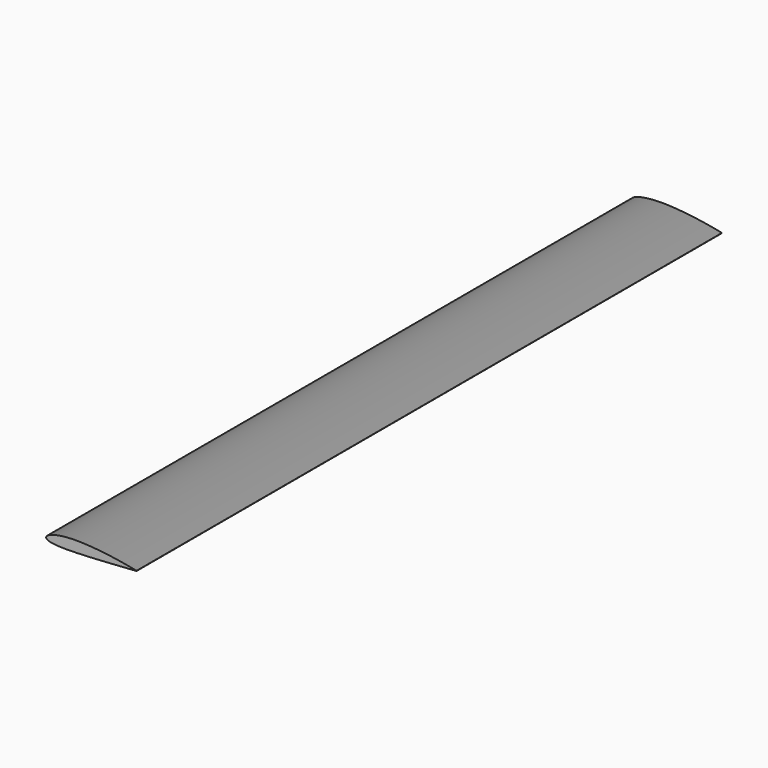
from build123d import *

# Parameters (mm, degrees)
PAD_DEPTH = 1415


with BuildPart() as part:
    with BuildSketch(Plane.XZ):
        Polygon((0, 0), (1.852725, 5.118926), (4.009145, 7.260839), (6.218891, 8.904701), (8.457514, 10.286004), (10.715354, 11.496008), (12.98736, 12.581552), (15.270468, 13.570495), (17.562638, 14.481018), (19.862422, 15.325774), (22.168741, 16.113999), (24.48076, 16.852689), (26.797816, 17.547294), (29.119367, 18.202168), (31.44496, 18.820856), (33.774215, 19.406294), (36.106804, 19.96095), (38.442442, 20.486922), (40.780879, 20.986019), (43.121891, 21.459807), (45.465282, 21.909665), (47.81087, 22.336805), (50.158495, 22.742309), (52.508006, 23.127144), (54.859269, 23.492182), (57.212158, 23.838211), (59.566555, 24.16595), (61.922355, 24.476053), (64.279454, 24.769124), (66.63776, 25.045718), (68.997183, 25.306346), (71.35764, 25.551485), (73.719052, 25.781577), (76.081346, 25.997037), (78.44445, 26.198252), (80.808297, 26.385583), (83.172825, 26.559373), (85.537972, 26.719943), (87.903681, 26.867598), (90.269896, 27.002626), (92.636564, 27.125298), (95.003636, 27.235875), (97.371062, 27.334602), (99.738796, 27.421714), (102.106794, 27.497436), (104.475013, 27.561982), (106.843411, 27.615556), (109.211949, 27.658354), (111.580589, 27.690564), (113.949293, 27.712367), (116.318027, 27.723936), (118.686756, 27.725438), (121.055447, 27.717032), (123.424068, 27.698873), (125.792589, 27.67111), (128.160979, 27.633887), (130.52921, 27.587341), (132.897254, 27.531606), (135.265085, 27.466811), (137.632675, 27.393082), (140, 27.310538), (142.348312, 27.220399), (144.696485, 27.12388), (147.044509, 27.02109), (149.392373, 26.912134), (151.740069, 26.797113), (154.087588, 26.676126), (156.434919, 26.549268), (158.782056, 26.41663), (161.128989, 26.278303), (163.47571, 26.134372), (165.822211, 25.984922), (168.168484, 25.830032), (170.514523, 25.669782), (172.860319, 25.504247), (175.205866, 25.3335), (177.551157, 25.157613), (179.896184, 24.976655), (182.240943, 24.790691), (184.585425, 24.599787), (186.929625, 24.404003), (189.273537, 24.203402), (191.617155, 23.998039), (193.960473, 23.787972), (196.303485, 23.573254), (198.646186, 23.353937), (200.988571, 23.130073), (203.330634, 22.901708), (205.67237, 22.66889), (208.013774, 22.431664), (210.354841, 22.190072), (212.695566, 21.944156), (215.035944, 21.693955), (217.375971, 21.439508), (219.715641, 21.180851), (222.05495, 20.918018), (224.393894, 20.651043), (226.732469, 20.379957), (229.070668, 20.10479), (231.408489, 19.825571), (233.745927, 19.542326), (236.082978, 19.25508), (238.419636, 18.963859), (240.755899, 18.668684), (243.091761, 18.369576), (245.427219, 18.066555), (247.762267, 17.759639), (250.096903, 17.448845), (252.431122, 17.134188), (254.764919, 16.815683), (257.09829, 16.493341), (259.431231, 16.167174), (261.763739, 15.837192), (264.095807, 15.503403), (266.427433, 15.165816), (268.758611, 14.824435), (271.089338, 14.479265), (273.419608, 14.13031), (275.749418, 13.777572), (278.078763, 13.421051), (280.407638, 13.060748), (282.736039, 12.696659), (285.063961, 12.328783), (287.391399, 11.957115), (289.718348, 11.58165), (292.044804, 11.20238), (294.370761, 10.819298), (296.696214, 10.432394), (299.021159, 10.041659), (301.345589, 9.64708), (303.6695, 9.248646), (305.992886, 8.846341), (308.315741, 8.44015), (310.638061, 8.030058), (312.959838, 7.616047), (315.281067, 7.198098), (317.601743, 6.776191), (319.921858, 6.350305), (322.241407, 5.920417), (324.560383, 5.486505), (326.87878, 5.048544), (329.196591, 4.606509), (331.513808, 4.160371), (333.830426, 3.710105), (336.146437, 3.255679), (338.461834, 2.797065), (340.776609, 2.33423), (343.090754, 1.867143), (345.404262, 1.395769), (347.717125, 0.920075), (350.029335, 0.440023), (349.970665, -0.440023), (347.616208, -0.610692), (345.262404, -0.780461), (342.909246, -0.949365), (340.556725, -1.11744), (338.204833, -1.284719), (335.853563, -1.451235), (333.502907, -1.617018), (331.152858, -1.7821), (328.803409, -1.946509), (326.454554, -2.110273), (324.106284, -2.273419), (321.758593, -2.435973), (319.411475, -2.597959), (317.064924, -2.759401), (314.718933, -2.92032), (312.373496, -3.080739), (310.028606, -3.240676), (307.684259, -3.40015), (305.340447, -3.55918), (302.997167, -3.717781), (300.654411, -3.875969), (298.312175, -4.033758), (295.970453, -4.19116), (293.629239, -4.348186), (291.28853, -4.504849), (288.948319, -4.661156), (286.608601, -4.817115), (284.269373, -4.972734), (281.930628, -5.128017), (279.592362, -5.28297), (277.25457, -5.437594), (274.917249, -5.591893), (272.580392, -5.745866), (270.243996, -5.899512), (267.908056, -6.05283), (265.572567, -6.205816), (263.237526, -6.358465), (260.902928, -6.510772), (258.568769, -6.662729), (256.235043, -6.814328), (253.901748, -6.965559), (251.568878, -7.116411), (249.23643, -7.26687), (246.904399, -7.416923), (244.572781, -7.566555), (242.241572, -7.715749), (239.910768, -7.864486), (237.580364, -8.012748), (235.250356, -8.160512), (232.92074, -8.307758), (230.591511, -8.454459), (228.262665, -8.600592), (225.934198, -8.74613), (223.606106, -8.891043), (221.278383, -9.035302), (218.951026, -9.178876), (216.624029, -9.32173), (214.297389, -9.463832), (211.971101, -9.605143), (209.645159, -9.745627), (207.319559, -9.885244), (204.994296, -10.023952), (202.669366, -10.161708), (200.344762, -10.298468), (198.02048, -10.434184), (195.696515, -10.568809), (193.372861, -10.702293), (191.049512, -10.834582), (188.726463, -10.965624), (186.403708, -11.095361), (184.081242, -11.223737), (181.759057, -11.350691), (179.437149, -11.476161), (177.11551, -11.600082), (174.794134, -11.722389), (172.473014, -11.843012), (170.152144, -11.96188), (167.831516, -12.078921), (165.511123, -12.194057), (163.190957, -12.307212), (160.871011, -12.418303), (158.551277, -12.527248), (156.231747, -12.633959), (153.912412, -12.738348), (151.593264, -12.840323), (149.274293, -12.939789), (146.955491, -13.036646), (144.636848, -13.130794), (142.318355, -13.222127), (140, -13.310538), (137.700658, -13.396971), (135.401582, -13.482367), (133.102746, -13.566606), (130.804123, -13.649563), (128.505687, -13.731109), (126.207411, -13.81111), (123.909265, -13.889429), (121.61122, -13.965921), (119.313244, -14.040438), (117.015306, -14.112825), (114.717373, -14.182923), (112.419411, -14.250564), (110.121384, -14.315576), (107.823256, -14.377778), (105.524987, -14.436982), (103.226539, -14.492992), (100.92787, -14.545603), (98.628938, -14.594602), (96.329698, -14.639763), (94.030103, -14.680854), (91.730104, -14.717626), (89.429653, -14.749821), (87.128695, -14.777166), (84.827175, -14.799373), (82.525036, -14.816138), (80.222217, -14.82714), (77.918654, -14.832037), (75.614281, -14.830466), (73.309027, -14.82204), (71.002817, -14.806346), (68.695574, -14.78294), (66.387213, -14.751347), (64.077645, -14.711053), (61.766778, -14.661505), (59.454509, -14.6021), (57.140731, -14.532182), (54.825327, -14.451033), (52.508172, -14.357864), (50.18913, -14.251805), (47.868052, -14.131887), (45.544775, -13.99703), (43.219121, -13.846019), (40.890891, -13.677478), (38.559862, -13.489839), (36.225785, -13.281294), (33.888373, -13.049745), (31.5473, -12.792724), (29.202184, -12.507294), (26.852573, -12.189911), (24.497926, -11.836222), (22.137578, -11.440774), (19.770696, -10.996573), (17.396199, -10.494384), (15.01264, -9.921552), (12.617979, -9.259897), (10.209153, -8.48156), (7.781109, -7.539701), (5.324189, -6.343062), (2.813941, -4.656149), align=None)
    extrude(amount=PAD_DEPTH, both=True)


solid = part.part
